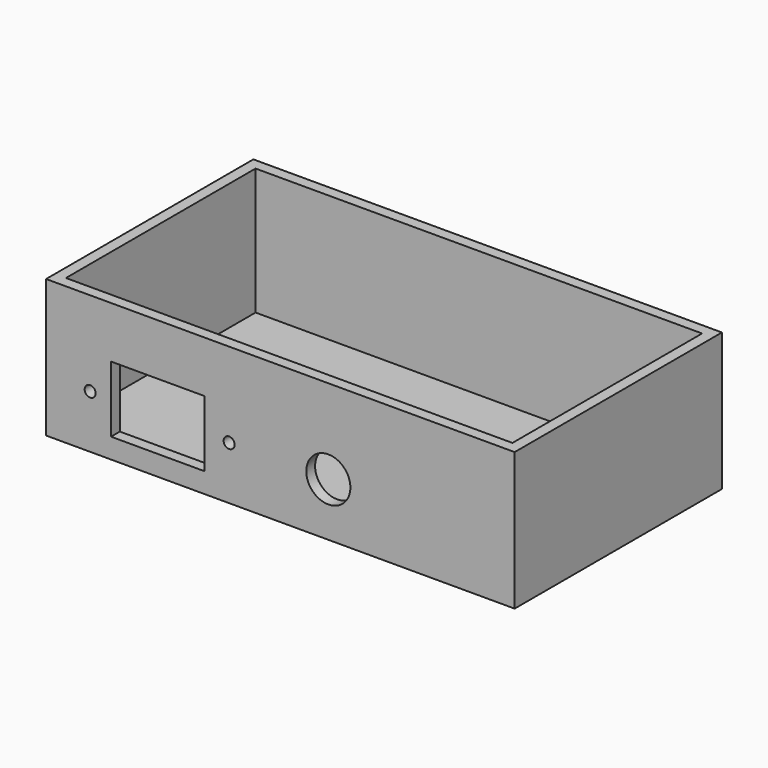
from build123d import *

# Parameters (mm, degrees)
F0_W     = 134.9375
F0_H     = 39.6875
F1_DEPTH = 74.6125
F2_W     = 128.5875
F2_H     = 68.2625
F3_DEPTH = 36.5125
F4_R     = 1.5875
F4_W     = 26.9875
F4_H     = 19.05
F5_DEPTH = 6.35
F6_R     = 6.35
F7_DEPTH = 6.35


with BuildPart() as f1:
    # F0 (on Front) → F1 (new body)
    with BuildSketch(Plane.XZ):
        with Locations((67.46875, 19.84375)):
            Rectangle(F0_W, F0_H)
    extrude(amount=-F1_DEPTH)

    # F2 (on face) → F3 (cut)
    with BuildSketch(Plane.XY.offset(39.6875)):
        with Locations((67.46875, 37.30625)):
            Rectangle(F2_W, F2_H)
    extrude(amount=-F3_DEPTH, mode=Mode.SUBTRACT)

    # F4 (on face) → F5 (cut)
    with BuildSketch(Plane.XZ):
        with Locations((12.7, 15.323338)):
            Circle(F4_R)
        with Locations((52.705, 15.323338)):
            Circle(F4_R)
        with Locations((32.18815, 15.323338)):
            Rectangle(F4_W, F4_H)
    extrude(amount=-F5_DEPTH, mode=Mode.SUBTRACT)

    # F6 (on face) → F7 (cut)
    with BuildSketch(Plane.XZ):
        with Locations((81.28, 15.3162)):
            Circle(F6_R)
    extrude(amount=-F7_DEPTH, mode=Mode.SUBTRACT)


solid = f1.part
